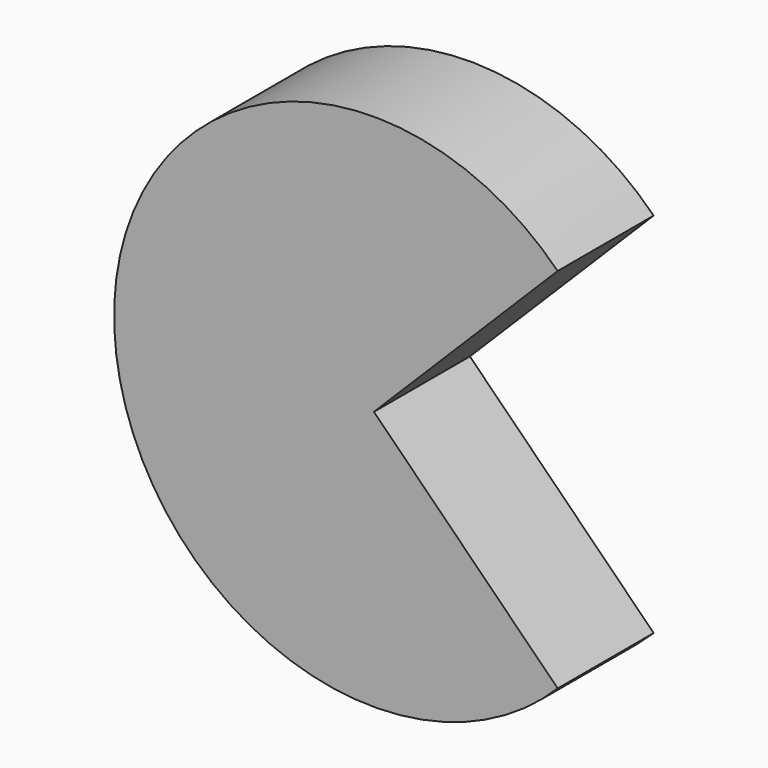
from build123d import *

# Parameters (mm, degrees)
F0_W          = 36.5042090416
F0_H          = 16.8537106365
F1_ANGLE_BACK = 135
F1_ANGLE      = 270


with BuildPart() as f1:
    # F0 (on Top) → F1 (revolve)
    with BuildSketch(Plane.XY, mode=Mode.PRIVATE) as f1_sk:
        with Locations((-18.2521045208, 8.4268553182)):
            Rectangle(F0_W, F0_H)
    revolve(f1_sk.sketch.rotate(Axis((0, 8.4268553182, 0), (0, -1, 0)), -F1_ANGLE_BACK), axis=Axis((0, 8.4268553182, 0), (0, -1, 0)), revolution_arc=F1_ANGLE)


solid = f1.part
